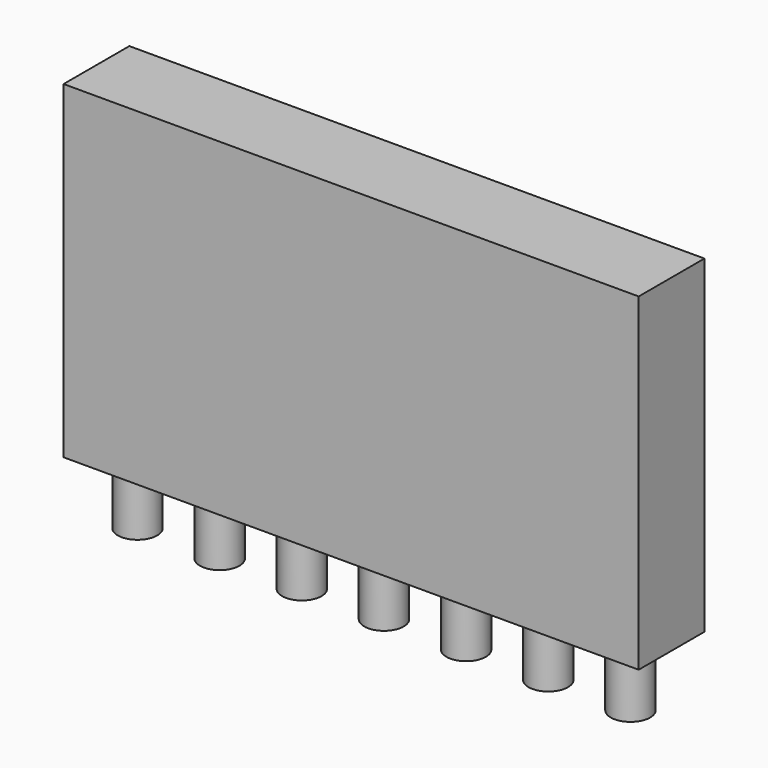
from build123d import *

# Parameters (mm, degrees)
F0_W     = 50.8
F0_H     = 25.4
F1_DEPTH = 6.35
F2_R     = 1.524
F3_DEPTH = 5.08
F4_W     = 6.35
F4_H     = 61.243406
F5_DEPTH = 25.4


with BuildPart() as f1:
    # F0 (on Front) → F1 (new body)
    with BuildSketch(Plane.XZ):
        Rectangle(F0_W, F0_H)
    extrude(amount=F1_DEPTH)

    # F2 (on face) → F3 (join)
    with BuildSketch(Plane(origin=(0, 0, -12.7), x_dir=(1, 0, 0), z_dir=(0, 0, -1))):
        with BuildLine():
            ThreePointArc((-23.749, 3.175), (-22.225, 1.651), (-20.701, 3.175))
            ThreePointArc((-20.701, 3.175), (-22.225, 4.699), (-23.749, 3.175))
        make_face()
        with Locations((-15.875, 3.175)):
            Circle(F2_R)
        with Locations((-9.525, 3.175)):
            Circle(F2_R)
        with Locations((-3.175, 3.175)):
            Circle(F2_R)
        with Locations((3.175, 3.175)):
            Circle(F2_R)
        with Locations((9.525, 3.175)):
            Circle(F2_R)
        with Locations((15.875, 3.175)):
            Circle(F2_R)
        with Locations((22.225, 3.175)):
            Circle(F2_R)
    extrude(amount=F3_DEPTH)

    # F4 (on face) → F5 (cut)
    with BuildSketch(Plane.XZ.offset(6.35)):
        with Locations((22.225, -17.921703)):
            Rectangle(F4_W, F4_H)
    extrude(amount=-F5_DEPTH, mode=Mode.SUBTRACT)


solid = f1.part
